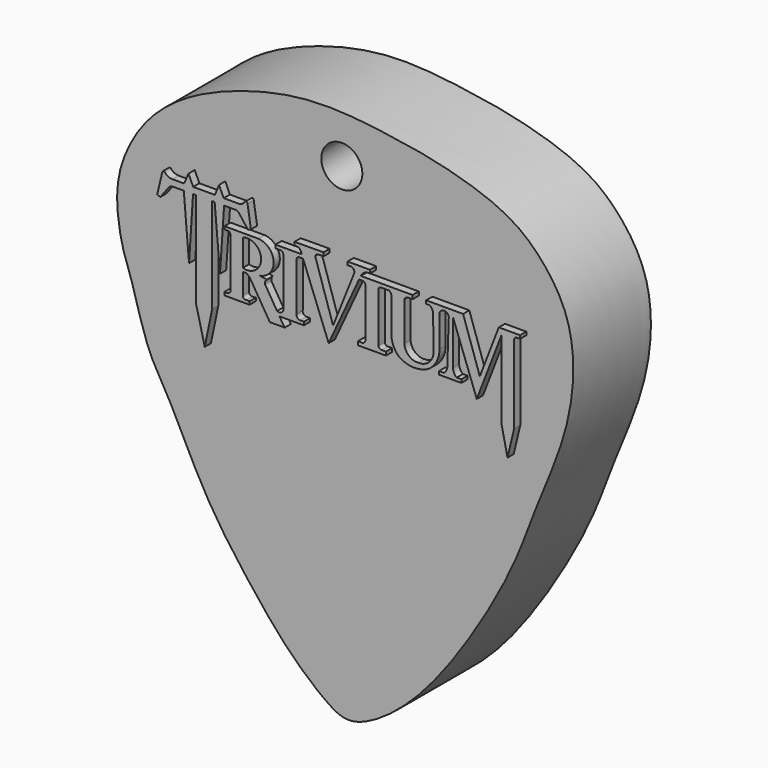
from build123d import *

# Parameters (mm, degrees)
F1_DEPTH = 25
F3_DEPTH = 2
F4_R     = 5.2820288356
F5_DEPTH = 25


with BuildPart() as f1:
    # F0 (on Front) → F1 (new body)
    with BuildSketch(Plane.XZ):
        with BuildLine():
            add(Edge.make_bspline(
                [(1.9825496711, -72.2214207053), (0.0771073921, -72.2764912067), (-3.8561355906, -70.3728089787), (-14.0607870897, -61.6764720101), (-24.3639773751, -48.8024915665), (-35.5355861452, -33.7172337015), (-44.7070800661, -13.2095085188), (-50.2498034925, -5.5552116722), (-54.1854912137, 10.1775563407), (-56.3240445898, 14.7566402147), (-58.305145895, 24.8204044331), (-57.4433787724, 34.7846760144), (-51.6616204392, 45.9865629153), (-42.3011672966, 54.4881459318), (-28.5976193917, 61.1296016053), (-7.5212936917, 66.5554988701), (14.1837244887, 63.463607581), (24.8109476834, 61.7736703948), (42.0431363402, 56.885254648), (51.8061284888, 48.6609138694), (60.2560276157, 35.9078526166), (59.7439844298, 13.5932434479), (49.6271970527, -8.3578215677), (43.9716439082, -25.8318098951), (26.0976383797, -55.2894286295), (11.6848818643, -68.770259961), (4.3788889588, -72.1521624509), (1.9825496711, -72.2214207053)],
                knots=[0, 0, 0, 0, 0.0246594346, 0.0618666149, 0.1039235974, 0.1494660741, 0.1973905572, 0.2303783488, 0.2704432969, 0.2944753266, 0.3263139929, 0.3591663544, 0.3950729467, 0.4312273085, 0.4710516995, 0.5194753124, 0.5669868562, 0.6014410475, 0.6440216115, 0.6807171335, 0.7196001636, 0.7674908128, 0.8175457769, 0.862479422, 0.9226817335, 0.9689875822, 1, 1, 1, 1], degree=3))
        make_face()
    extrude(amount=F1_DEPTH)

    # F2 (on face) → F3 (join)
    with BuildSketch(Plane.XZ.offset(25)):
        with BuildLine():
            Line((-44.6028978209, 37.7865617899), (-45.9476262331, 32.2201885283))
            Line((-45.9476262331, 32.2201885283), (-45.1596416533, 31.8870693445))
            Line((-45.1596416533, 31.8870693445), (-42.9835766554, 34.7884893417))
            ThreePointArc((-42.9835766554, 34.7884893417), (-42.5111092584, 35.1728346163), (-41.9177673757, 35.3102833033))
            Line((-41.9177673757, 35.3102833033), (-39.1009822488, 35.3102833033))
            Line((-39.1009822488, 35.3102833033), (-37.7463586628, 19.3024687469))
            Line((-37.7463586628, 19.3024687469), (-36.7168486118, 35.3102833033))
            Line((-36.7168486118, 35.3102833033), (-35.9659902751, 35.3102833033))
            Line((-35.9659902751, 35.3102833033), (-35.9659902751, 10.8008391495))
            Line((-35.9659902751, 10.8008391495), (-33.7131246924, 1.6406488139))
            Line((-33.7131246924, 1.6406488139), (-31.8016037345, 10.8008391495))
            Line((-31.8016037345, 10.8008391495), (-31.8016037345, 35.3099893111))
            Line((-31.8016037345, 35.3099893111), (-31.1488229782, 35.3102833033))
            Line((-31.1488229782, 35.3102833033), (-29.7748707235, 19.4969326258))
            Line((-29.7748707235, 19.4969326258), (-28.7171974778, 35.3102833033))
            Line((-28.7171974778, 35.3102833033), (-25.8472990245, 35.3102833033))
            ThreePointArc((-25.8472990245, 35.3102833033), (-25.2624558756, 35.1896492298), (-24.8221121728, 34.786298871))
            Line((-24.8221121728, 34.786298871), (-22.5614476949, 31.8095311522))
            Line((-22.5614476949, 31.8095311522), (-21.8101330101, 32.1630239487))
            Line((-21.8101330101, 32.1630239487), (-22.6807489344, 37.650719285))
            add(Edge.make_bspline(
                [(-22.6807489344, 37.650719285), (-22.6805440167, 37.7214591967), (-22.7205051801, 38.0969689706), (-23.2535579717, 38.1050894476), (-23.6341653149, 37.5482503596), (-23.7954788356, 37.3973004225), (-24.2337030518, 37.0111077937), (-24.7148294002, 36.9586236775)],
                knots=[0, 0, 0, 0, 0.1709625539, 0.3524207178, 0.5773366718, 0.7130794637, 1, 1, 1, 1], degree=3))
            Line((-24.7148294002, 36.9586236775), (-28.8340822354, 36.9586236775))
            Line((-28.8340822354, 36.9586236775), (-30.0179664046, 39.5748242736))
            Line((-30.0179664046, 39.5748242736), (-31.0791455522, 36.9586236775))
            Line((-31.0791455522, 36.9586236775), (-36.6758159246, 36.9586236775))
            Line((-36.6758159246, 36.9586236775), (-37.8949791193, 39.5748242736))
            Line((-37.8949791193, 39.5748242736), (-39.0162084601, 36.9586236775))
            Line((-39.0162084601, 36.9586236775), (-42.0108759426, 36.9586236775))
            ThreePointArc((-42.0108759426, 36.9586236775), (-43.1066784571, 37.2052512438), (-43.9911559224, 37.8975719213))
            ThreePointArc((-43.9911559224, 37.8975719213), (-44.3331641972, 38.0412082838), (-44.6028978209, 37.7865617899))
        make_face()
        with BuildLine():
            Line((-19.9388731271, 30.6653697044), (-28.6280550063, 30.6653697044))
            Line((-28.6280550063, 30.6653697044), (-28.6280550063, 29.9654081464))
            Line((-28.6280550063, 29.9654081464), (-28.6280550063, 29.9067962915))
            Line((-28.6280550063, 29.9067962915), (-27.5118928403, 29.9067962915))
            ThreePointArc((-27.5118928403, 29.9067962915), (-27.1688215005, 29.5756652948), (-27.0426981151, 29.1158407927))
            Line((-27.0426981151, 29.1158407927), (-27.0426981151, 16.5559779853))
            ThreePointArc((-27.0426981151, 16.5559779853), (-27.328830068, 15.9764224608), (-27.931259945, 15.7422551199))
            Line((-27.931259945, 15.7422551199), (-28.6643244326, 15.7422551199))
            Line((-28.6643244326, 15.7422551199), (-28.6643244326, 14.9565674365))
            Line((-28.6643244326, 14.9565674365), (-22.1556089818, 14.9565674365))
            Line((-22.1556089818, 14.9565674365), (-22.1556089818, 15.7422551199))
            Line((-22.1556089818, 15.7422551199), (-22.9626479032, 15.7422551199))
            ThreePointArc((-22.9626479032, 15.7422551199), (-23.6047886589, 15.8902092479), (-23.8902959973, 16.4841122146))
            Line((-23.8902959973, 16.4841122146), (-23.8902959973, 21.8510515988))
            Line((-23.8902959973, 21.8510515988), (-23.0537134069, 21.8510515988))
            ThreePointArc((-23.0537134069, 21.8510515988), (-22.4207820664, 21.4281058806), (-21.9334699214, 20.8432879299))
            Line((-21.9334699214, 20.8432879299), (-16.9353093952, 12.7129498869))
            Line((-16.9353093952, 12.7129498869), (-13.1112392557, 12.7129498869))
            Line((-13.1112392557, 12.7129498869), (-14.4825493917, 14.8356622085))
            Line((-14.4825493917, 14.8356622085), (-8.1688072532, 14.8356622085))
            Line((-8.1688072532, 14.8356622085), (-8.1688072532, 15.6812947243))
            Line((-8.1688072532, 15.6812947243), (-9.1558890417, 15.6812947243))
            ThreePointArc((-9.1558890417, 15.6812947243), (-9.8896957113, 16.0383530938), (-10.0615881383, 16.836109887))
            Line((-10.0615881383, 16.836109887), (-10.0615881383, 28.8874365607))
            ThreePointArc((-10.0615881383, 28.8874365607), (-9.9701829149, 29.4581842018), (-9.5826048921, 29.8870094121))
            Line((-9.5826048921, 29.8870094121), (-8.387404494, 29.8984292895))
            Line((-8.387404494, 29.8984292895), (-1.7941324091, 12.8727372433))
            Line((-1.7941324091, 12.8727372433), (6.0502807047, 29.8870094121))
            Line((6.0502807047, 29.8870094121), (6.8264068104, 29.8870094121))
            ThreePointArc((6.8264068104, 29.8870094121), (7.3676636592, 29.6966896824), (7.6706903055, 29.209498316))
            Line((7.6706903055, 29.209498316), (7.6706903055, 16.678860411))
            ThreePointArc((7.6706903055, 16.678860411), (7.5026909834, 16.134018889), (7.0570372045, 15.778394416))
            Line((7.0570372045, 15.778394416), (5.746930372, 15.778394416))
            Line((5.746930372, 15.778394416), (5.746930372, 14.8407742381))
            Line((5.746930372, 14.8407742381), (12.9539417103, 14.8407742381))
            Line((12.9539417103, 14.8407742381), (12.9539417103, 15.7550387084))
            Line((12.9539417103, 15.7550387084), (11.7913026559, 15.7541979536))
            ThreePointArc((11.7913026559, 15.7541979536), (11.2673948194, 15.9903793564), (11.0529400408, 16.5235493332))
            Line((11.0529400408, 16.5235493332), (11.0529400408, 29.3133761734))
            ThreePointArc((11.0529400408, 29.3133761734), (11.22609665, 29.7081836134), (11.6255152971, 29.8704206944))
            Line((11.6255152971, 29.8704206944), (13.7317692861, 29.8704206944))
            ThreePointArc((13.7317692861, 29.8704206944), (14.1933055435, 29.4635562306), (14.364968054, 28.8727208972))
            Line((14.364968054, 28.8727208972), (14.364968054, 20.3201454133))
            ThreePointArc((14.364968054, 20.3201454133), (14.8837913471, 17.6856312348), (16.4940897375, 15.5369614929))
            ThreePointArc((16.4940897375, 15.5369614929), (20.3152983811, 14.4727483649), (24.1365070247, 15.5369614929))
            ThreePointArc((24.1365070247, 15.5369614929), (26.0585281381, 17.8446732047), (26.7475592787, 20.7678452134))
            Line((26.7475592787, 20.7678452134), (26.7475592787, 28.3791382305))
            ThreePointArc((26.7475592787, 28.3791382305), (27.8822013831, 29.9244127559), (29.1229914874, 28.4630004317))
            Line((29.1229914874, 28.4630004317), (28.760664165, 17.4593888223))
            ThreePointArc((28.760664165, 17.4593888223), (28.5154214397, 16.5277280763), (27.890119759, 15.7948341221))
            Line((27.890119759, 15.7948341221), (26.623364538, 15.7948341221))
            Line((26.623364538, 15.7948341221), (26.623364538, 14.9642815813))
            Line((26.623364538, 14.9642815813), (32.3832146823, 14.9642815813))
            Line((32.3832146823, 14.9642815813), (32.3832146823, 15.7948341221))
            Line((32.3832146823, 15.7948341221), (31.1710033566, 15.7948341221))
            ThreePointArc((31.1710033566, 15.7948341221), (30.4863644291, 16.6339679996), (30.2139203995, 17.6821332425))
            Line((30.2139203995, 17.6821332425), (30.2139203995, 29.1933771223))
            Line((30.2139203995, 29.1933771223), (36.3493982948, 12.6176414782))
            Line((36.3493982948, 12.6176414782), (42.7203401923, 29.1933771223))
            Line((42.7203401923, 29.1933771223), (42.7203401923, 9.0217301622))
            Line((42.7203401923, 9.0217301622), (44.2594736814, 1.8832152709))
            Line((44.2594736814, 1.8832152709), (45.9587872028, 9.0217301622))
            Line((45.9587872028, 9.0217301622), (45.9587872028, 29.1933771223))
            ThreePointArc((45.9587872028, 29.1933771223), (46.0909376169, 29.598946145), (46.4144833386, 29.8769176006))
            Line((46.4144833386, 29.8769176006), (47.500859946, 29.8769176006))
            Line((47.500859946, 29.8769176006), (47.500859946, 30.7052675635))
            Line((47.500859946, 30.7052675635), (42.0153625309, 30.7052675635))
            Line((42.0153625309, 30.7052675635), (37.1309965849, 17.9972629994))
            Line((37.1309965849, 17.9972629994), (32.8285098076, 30.760243535))
            Line((32.8285098076, 30.760243535), (23.3170015403, 30.760243535))
            Line((23.3170015403, 30.760243535), (23.3226752989, 29.926216798))
            Line((23.3226752989, 29.926216798), (24.2206677794, 29.9323257059))
            ThreePointArc((24.2206677794, 29.9323257059), (24.8651161446, 29.2131080301), (25.1059588045, 28.2779168338))
            Line((25.1059588045, 28.2779168338), (25.2152290195, 19.7230894119))
            ThreePointArc((25.2152290195, 19.7230894119), (24.0916449562, 17.0173517738), (21.3672537357, 15.9397851676))
            ThreePointArc((21.3672537357, 15.9397851676), (18.8072576804, 16.7768522752), (17.7132915705, 19.2380510271))
            Line((17.7132915705, 19.2380510271), (17.7132915705, 29.2009210272))
            ThreePointArc((17.7132915705, 29.2009210272), (18.1544104556, 29.6777258195), (18.7796074897, 29.8539567739))
            Line((18.7796074897, 29.8539567739), (19.8090039194, 29.8539567739))
            Line((19.8090039194, 29.8539567739), (19.8090039194, 30.8127272874))
            Line((19.8090039194, 30.8127272874), (6.4942520112, 30.8127272874))
            ThreePointArc((6.4942520112, 30.8127272874), (7.0952859947, 31.644682133), (8.0049671233, 32.1199409664))
            Line((8.0049671233, 32.1199409664), (8.8358614594, 32.1199409664))
            Line((8.8358614594, 32.1199409664), (8.8358614594, 32.9708091618))
            Line((8.8358614594, 32.9708091618), (3.0678714606, 32.9708091618))
            Line((3.0678714606, 32.9708091618), (3.080022987, 32.1199409664))
            Line((3.080022987, 32.1199409664), (3.8054480683, 32.1303009987))
            ThreePointArc((3.8054480683, 32.1303009987), (4.6419680231, 31.7050566914), (4.7485008836, 30.7727213949))
            Line((4.7485008836, 30.7727213949), (-0.6558668683, 17.2257814556))
            Line((-0.6558668683, 17.2257814556), (-5.268078763, 31.496681273))
            ThreePointArc((-5.268078763, 31.496681273), (-4.9375383751, 31.9328731486), (-4.4249226339, 32.1245640516))
            Line((-4.4249226339, 32.1245640516), (-3.1153403688, 32.1245640516))
            Line((-3.1153403688, 32.1245640516), (-3.1153403688, 33.0420081298))
            Line((-3.1153403688, 33.0420081298), (-10.5781275779, 32.9927243292))
            Line((-10.5781275779, 32.9927243292), (-10.5781275779, 32.1279279888))
            Line((-10.5781275779, 32.1279279888), (-9.6174441278, 32.1279279888))
            ThreePointArc((-9.6174441278, 32.1279279888), (-9.0340118395, 31.5412925611), (-8.7362211198, 30.7693760842))
            Line((-8.7362211198, 30.7693760842), (-15.4922604561, 30.7693760842))
            Line((-15.4922604561, 30.7693760842), (-15.4922604561, 29.8984292895))
            Line((-15.4922604561, 29.8984292895), (-14.0062207356, 29.8984292895))
            ThreePointArc((-14.0062207356, 29.8984292895), (-13.6092210424, 29.5788500542), (-13.4597430006, 29.0916170925))
            Line((-13.4597430006, 29.0916170925), (-13.4597430006, 16.613021493))
            ThreePointArc((-13.4597430006, 16.613021493), (-14.074059434, 15.8155465696), (-15.0803001598, 15.8443655819))
            Line((-15.0803001598, 15.8443655819), (-18.1168057024, 20.7837931812))
            ThreePointArc((-18.1168057024, 20.7837931812), (-18.1183754472, 21.5095912733), (-17.711000517, 22.1102833748))
            Line((-17.711000517, 22.1102833748), (-19.6350813518, 22.4115943038))
            ThreePointArc((-19.6350813518, 22.4115943038), (-15.9687169056, 26.6790184288), (-19.9388731271, 30.6653697044))
        make_face()
        with BuildLine():
            Line((-23.8769482821, 22.7577928454), (-23.8769482821, 29.6974137685))
            ThreePointArc((-23.8769482821, 29.6974137685), (-19.1885207263, 26.2276033069), (-23.8769482821, 22.7577928454))
        make_face(mode=Mode.SUBTRACT)
    extrude(amount=F3_DEPTH)

    # F4 (on face) → F5 (cut, through all)
    with BuildSketch(Plane.XZ.offset(25)):
        with Locations((0, 52.7711808681)):
            Circle(F4_R)
    extrude(amount=-F5_DEPTH, mode=Mode.SUBTRACT)


solid = f1.part
